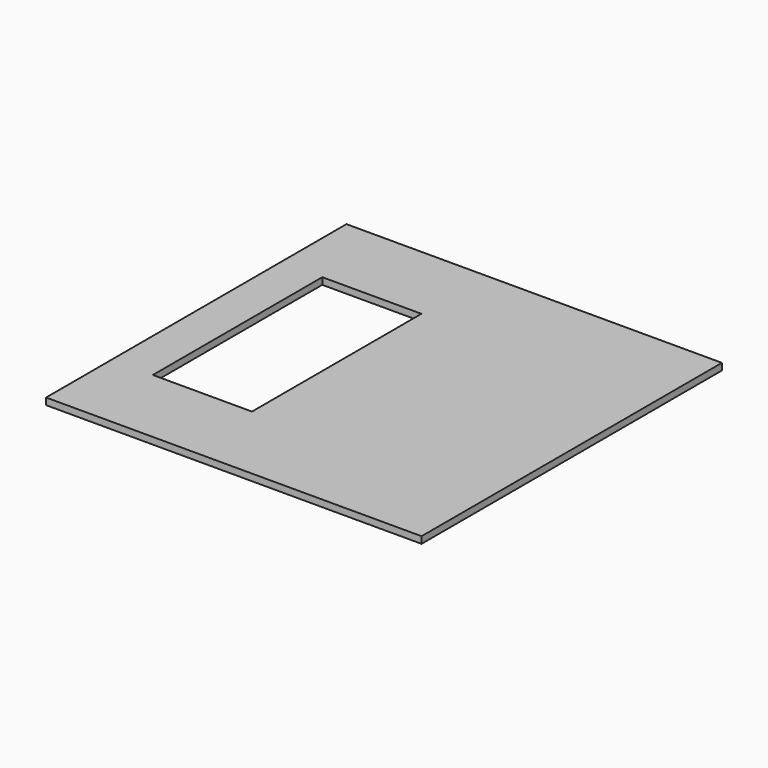
from build123d import *

# Parameters (mm, degrees)
F0_W     = 500
F0_H     = 500
F0_R     = 6
F0_W_2   = 132
F0_H_2   = 282
F0_R_2   = 3.1
F1_DEPTH = 9
F2_DEPTH = 7
F3_DEPTH = 5
F4_DEPTH = 25


with BuildPart() as f1:
    # F0 (on Top) → F1 (new body)
    with BuildSketch(Plane.XY):
        with Locations((250, 250)):
            Rectangle(F0_W, F0_H)
        with Locations((25, 25)):
            Circle(F0_R, mode=Mode.SUBTRACT)
        with Locations((475, 25)):
            Circle(F0_R, mode=Mode.SUBTRACT)
        with Locations((121, 250)):
            Rectangle(F0_W_2, F0_H_2, mode=Mode.SUBTRACT)
        with Locations((25, 475)):
            Circle(F0_R, mode=Mode.SUBTRACT)
        with Locations((475, 475)):
            Circle(F0_R, mode=Mode.SUBTRACT)
        with Locations((121, 250)):
            Rectangle(F0_W_2, F0_H_2)
        with Locations((475, 25)):
            Circle(F0_R)
        with Locations((475, 25)):
            Circle(F0_R_2, mode=Mode.SUBTRACT)
        with Locations((25, 25)):
            Circle(F0_R)
        with Locations((25, 25)):
            Circle(F0_R_2, mode=Mode.SUBTRACT)
        with Locations((25, 475)):
            Circle(F0_R)
        with Locations((25, 475)):
            Circle(F0_R_2, mode=Mode.SUBTRACT)
        with Locations((475, 475)):
            Circle(F0_R)
        with Locations((475, 475)):
            Circle(F0_R_2, mode=Mode.SUBTRACT)
        with Locations((475, 25)):
            Circle(F0_R_2)
        with Locations((475, 475)):
            Circle(F0_R_2)
        with Locations((25, 475)):
            Circle(F0_R_2)
        with Locations((25, 25)):
            Circle(F0_R_2)
    extrude(amount=F1_DEPTH)

    # F0 (on Top) → F2 (cut)
    with BuildSketch(Plane.XY):
        with Locations((475, 25)):
            Circle(F0_R_2)
        with Locations((475, 475)):
            Circle(F0_R_2)
        with Locations((25, 475)):
            Circle(F0_R_2)
        with Locations((25, 25)):
            Circle(F0_R_2)
    extrude(amount=F2_DEPTH, mode=Mode.SUBTRACT)

    # F0 (on Top) → F3 (cut)
    with BuildSketch(Plane.XY):
        with Locations((475, 475)):
            Circle(F0_R)
        with Locations((475, 475)):
            Circle(F0_R_2, mode=Mode.SUBTRACT)
        with Locations((25, 475)):
            Circle(F0_R)
        with Locations((25, 475)):
            Circle(F0_R_2, mode=Mode.SUBTRACT)
        with Locations((25, 25)):
            Circle(F0_R)
        with Locations((25, 25)):
            Circle(F0_R_2, mode=Mode.SUBTRACT)
        with Locations((475, 25)):
            Circle(F0_R)
        with Locations((475, 25)):
            Circle(F0_R_2, mode=Mode.SUBTRACT)
    extrude(amount=F3_DEPTH, mode=Mode.SUBTRACT)

    # F0 (on Top) → F4 (cut)
    with BuildSketch(Plane.XY):
        with Locations((121, 250)):
            Rectangle(F0_W_2, F0_H_2)
    extrude(amount=F4_DEPTH, mode=Mode.SUBTRACT)


solid = f1.part
